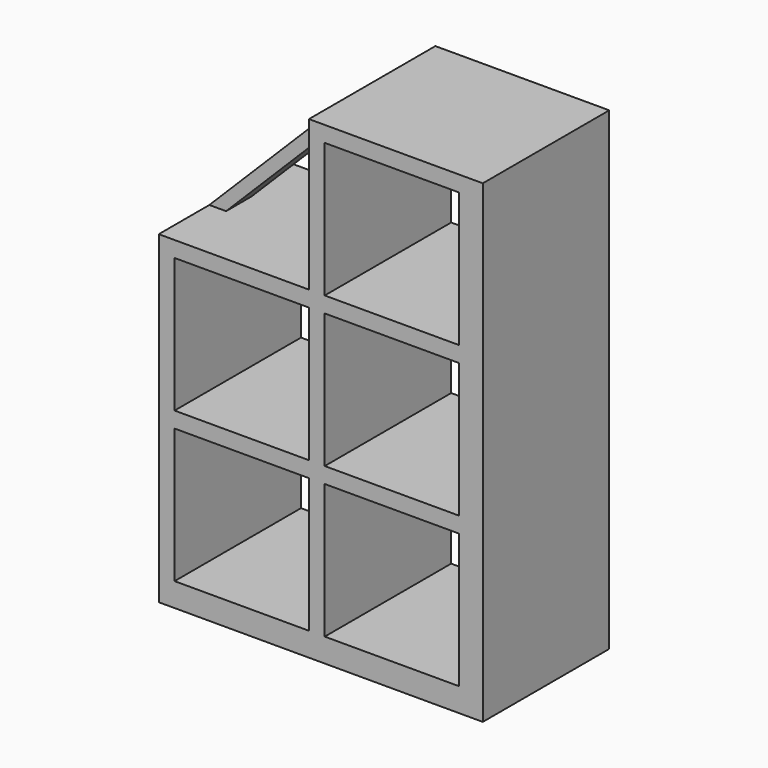
from build123d import *

# Parameters (mm, degrees)
F0_W     = 17
F0_H     = 17
F1_DEPTH = 10
F3_DEPTH = 2


with BuildPart() as f1:
    # F0 (on Front) → F1 (new body, symmetric)
    with BuildSketch(Plane.XZ):
        Polygon((-20, 41), (-20, 0), (21, 0), (21, 60), (-1, 60), (-1, 41), align=None)
        with Locations((-9.5, 11.5)):
            Rectangle(F0_W, F0_H, mode=Mode.SUBTRACT)
        with Locations((9.5, 11.5)):
            Rectangle(F0_W, F0_H, mode=Mode.SUBTRACT)
        with Locations((-9.5, 30.5)):
            Rectangle(F0_W, F0_H, mode=Mode.SUBTRACT)
        with Locations((9.5, 30.5)):
            Rectangle(F0_W, F0_H, mode=Mode.SUBTRACT)
        with Locations((9.5, 49.5)):
            Rectangle(F0_W, F0_H, mode=Mode.SUBTRACT)
    extrude(amount=F1_DEPTH, both=True)

    # F2 (on Front) → F3 (join, symmetric)
    with BuildSketch(Plane.XZ):
        Polygon((-1, 57.87868), (-1, 60), (-20, 41), (-17.87868, 41), align=None)
    extrude(amount=F3_DEPTH, both=True)


solid = f1.part
